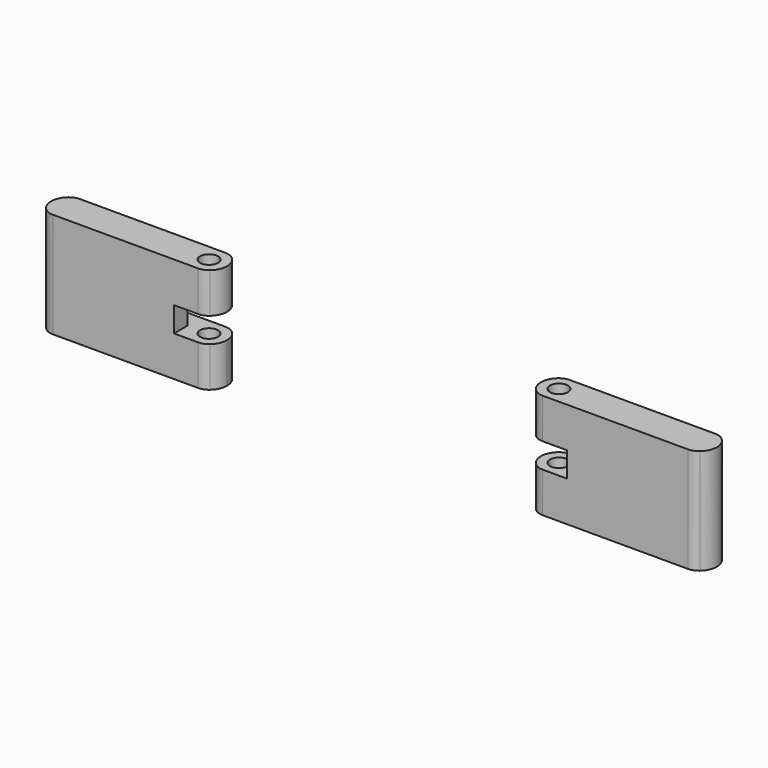
from build123d import *

# Parameters (mm, degrees)
F0_R     = 0.65
F1_DEPTH = 2.9
F2_DEPTH = 4.7
F3_R     = 0.65
F4_DEPTH = 2.9
F5_R     = 1


with BuildPart() as f1:
    # F0 (on Top) → F1 (new body)
    with BuildSketch(Plane.XY):
        with BuildLine():
            Line((5.7089678012, -3.0551114906), (7.6902039147, -3.0551114906))
            ThreePointArc((7.6902039147, -3.0551114906), (8.3170400316, -2.5798700872), (8.555031535, -1.8301114906))
            ThreePointArc((8.555031535, -1.8301114906), (8.3170400316, -1.0803528939), (7.6902039147, -0.6051114906))
            Line((7.6902039147, -0.6051114906), (1.4938830864, -0.6051114906))
            Line((1.4938830864, -0.6051114906), (-2.844968465, -0.6051114906))
            Line((-2.844968465, -0.6051114906), (-2.844968465, -1.8301114906))
            Line((-2.844968465, -1.8301114906), (5.7089678012, -1.8301114906))
            Line((5.7089678012, -1.8301114906), (5.7089678012, -3.0551114906))
        make_face()
        with Locations((7.255031535, -1.8301114906)):
            Circle(F0_R, mode=Mode.SUBTRACT)
        with BuildLine():
            Line((4.2914836667, -3.0551114906), (5.7089678012, -3.0551114906))
            Line((5.7089678012, -3.0551114906), (5.7089678012, -1.8301114906))
            Line((5.7089678012, -1.8301114906), (-2.844968465, -1.8301114906))
            Line((-2.844968465, -1.8301114906), (-2.844968465, -0.6051114906))
            Line((-2.844968465, -0.6051114906), (-3.2801408446, -0.6051114906))
            ThreePointArc((-3.2801408446, -0.6051114906), (-4.144968465, -1.8301114906), (-3.2801408446, -3.0551114906))
            Line((-3.2801408446, -3.0551114906), (4.2914836667, -3.0551114906))
        make_face()
    extrude(amount=F1_DEPTH)

    # F0 (on Top) → F2 (join)
    with BuildSketch(Plane.XY):
        with BuildLine():
            Line((4.2914836667, -3.0551114906), (5.7089678012, -3.0551114906))
            Line((5.7089678012, -3.0551114906), (5.7089678012, -1.8301114906))
            Line((5.7089678012, -1.8301114906), (-2.844968465, -1.8301114906))
            Line((-2.844968465, -1.8301114906), (-2.844968465, -0.6051114906))
            Line((-2.844968465, -0.6051114906), (-3.2801408446, -0.6051114906))
            ThreePointArc((-3.2801408446, -0.6051114906), (-4.144968465, -1.8301114906), (-3.2801408446, -3.0551114906))
            Line((-3.2801408446, -3.0551114906), (4.2914836667, -3.0551114906))
        make_face()
    extrude(amount=F2_DEPTH)

    # F3 (on face) → F4 (join)
    with BuildSketch(Plane.XY.offset(4.7)):
        with BuildLine():
            ThreePointArc((7.6902039147, -3.0551114906), (8.555031535, -1.8301114906), (7.6902039147, -0.6051114906))
            Line((7.6902039147, -0.6051114906), (-2.844968465, -0.6051114906))
            Line((-2.844968465, -0.6051114906), (-2.844968465, -1.8301114906))
            Line((-2.844968465, -1.8301114906), (5.7089678012, -1.8301114906))
            Line((5.7089678012, -1.8301114906), (5.7089678012, -3.0551114906))
            Line((5.7089678012, -3.0551114906), (7.6902039147, -3.0551114906))
        make_face()
        with Locations((7.255031535, -1.8301114906)):
            Circle(F3_R, mode=Mode.SUBTRACT)
        with BuildLine():
            Line((-2.844968465, -1.8301114906), (-2.844968465, -0.6051114906))
            Line((-2.844968465, -0.6051114906), (-3.2801408446, -0.6051114906))
            ThreePointArc((-3.2801408446, -0.6051114906), (-4.144968465, -1.8301114906), (-3.2801408446, -3.0551114906))
            Line((-3.2801408446, -3.0551114906), (5.7089678012, -3.0551114906))
            Line((5.7089678012, -3.0551114906), (5.7089678012, -1.8301114906))
            Line((5.7089678012, -1.8301114906), (-2.844968465, -1.8301114906))
        make_face()
    extrude(amount=F4_DEPTH)

    # F5
    f5_edges = [f1.edges().sort_by_distance(p)[0] for p in [
        (7.690204, -0.605111, 6.15),
        (7.690204, -0.605111, 1.45),
        (-3.280141, -0.605111, 3.8),
        (7.690204, -3.055111, 6.15),
        (-3.280141, -3.055111, 3.8),
        (7.690204, -3.055111, 1.45),
    ]]
    fillet(f5_edges, radius=F5_R)


with BuildPart() as f8_1:
    # F8: instance of F1
    add(f1.part.mirror(Plane.YZ.offset(19.8851954192)))


solid = Compound([f1.part, f8_1.part])
